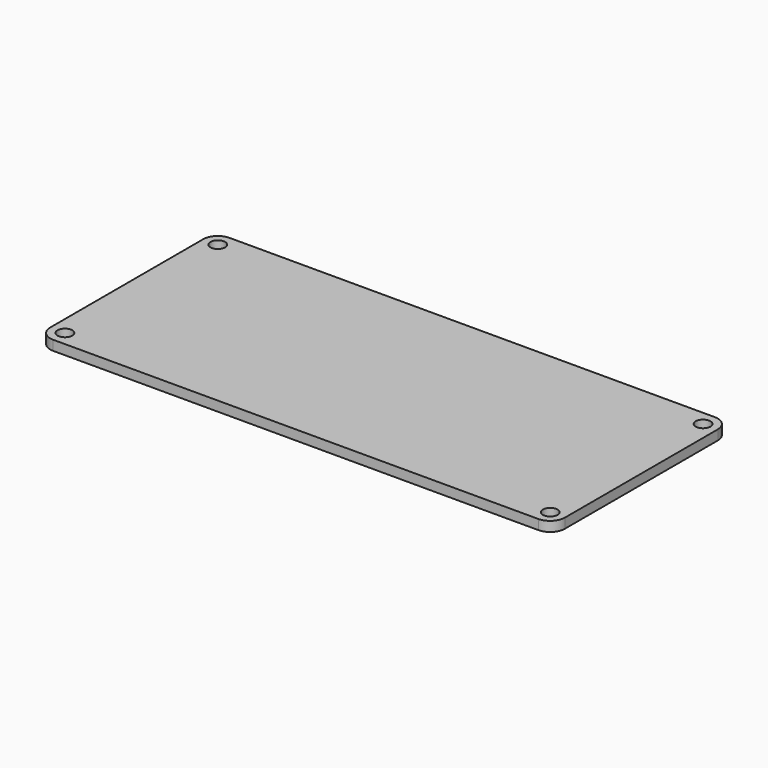
from build123d import *

# Parameters (mm, degrees)
F0_W     = 105
F0_H     = 45
F0_R     = 1.5
F1_DEPTH = 2
F2_R     = 3


with BuildPart() as f1:
    # F0 (on Top) → F1 (new body)
    with BuildSketch(Plane.XY):
        Rectangle(F0_W, F0_H)
        with Locations((-49.5, -19.5)):
            Circle(F0_R, mode=Mode.SUBTRACT)
        with Locations((49.5, -19.5)):
            Circle(F0_R, mode=Mode.SUBTRACT)
        with Locations((-49.5, 19.5)):
            Circle(F0_R, mode=Mode.SUBTRACT)
        with Locations((49.5, 19.5)):
            Circle(F0_R, mode=Mode.SUBTRACT)
    extrude(amount=F1_DEPTH)

    # F2
    f2_edges = [f1.edges().sort_by_distance(p)[0] for p in [
        (52.5, -22.5, 1),
        (52.5, 22.5, 1),
        (-52.5, -22.5, 1),
        (-52.5, 22.5, 1),
    ]]
    fillet(f2_edges, radius=F2_R)


solid = f1.part
